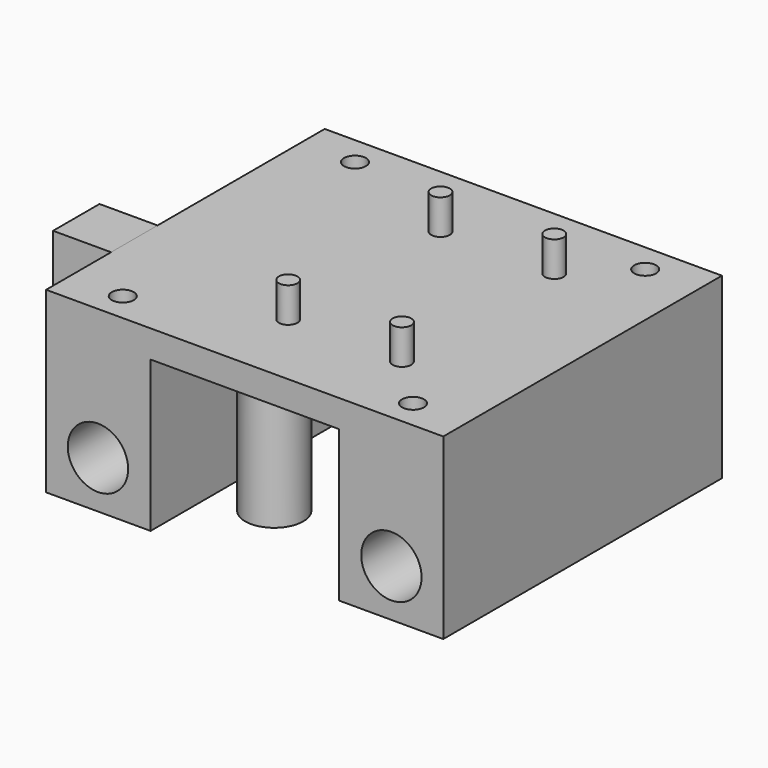
from build123d import *

# Parameters (mm, degrees)
F0_W      = 43.450012
F0_H      = 38.1
F1_DEPTH  = 3
F2_W      = 11.43
F2_H      = 38.1
F3_DEPTH  = 16.51
F4_R      = 3.302
F5_DEPTH  = 38.1
F6_R      = 1.016
F7_DEPTH  = 3.81
F8_R      = 1.2
F9_DEPTH  = 7
F10_R     = 3.175
F11_DEPTH = 16.51
F12_W     = 6.35
F12_H     = 9.625131
F13_DEPTH = 6.35


with BuildPart() as f1:
    # F0 (on Top) → F1 (new body)
    with BuildSketch(Plane.XY):
        Rectangle(F0_W, F0_H)
    extrude(amount=F1_DEPTH)

    # F2 (on face) → F3 (join)
    with BuildSketch(Plane(origin=(0, 0, 0), x_dir=(1, 0, 0), z_dir=(0, 0, -1))):
        with Locations((-16.010006, 0)):
            Rectangle(F2_W, F2_H)
        with Locations((16.010006, 0)):
            Rectangle(F2_W, F2_H)
    extrude(amount=F3_DEPTH)

    # F4 (on face) → F5 (cut, through all)
    with BuildSketch(Plane.XZ.offset(19.05)):
        with Locations((-16.050006, -11.335)):
            Circle(F4_R)
        with Locations((16.050006, -11.335)):
            Circle(F4_R)
    extrude(amount=-F5_DEPTH, mode=Mode.SUBTRACT)

    # F6 (on face) → F7 (join)
    with BuildSketch(Plane.XY.offset(3)):
        with Locations((-2.150994, -10.414)):
            Circle(F6_R)
        with Locations((10.295006, -10.414)):
            Circle(F6_R)
        with Locations((-2.150994, 10.414)):
            Circle(F6_R)
        with Locations((10.295006, 10.414)):
            Circle(F6_R)
    extrude(amount=F7_DEPTH)

    # F8 (on face) → F9 (cut)
    with BuildSketch(Plane.XY.offset(3)):
        with Locations((15.875, 15.875)):
            Circle(F8_R)
        with Locations((15.875, -15.875)):
            Circle(F8_R)
        with Locations((-15.875, 15.875)):
            Circle(F8_R)
        with Locations((-15.875, -15.875)):
            Circle(F8_R)
    extrude(amount=-F9_DEPTH, mode=Mode.SUBTRACT)

    # F10 (on face) → F11 (join, through all)
    with BuildSketch(Plane(origin=(0, 0, 0), x_dir=(1, 0, 0), z_dir=(0, 0, -1))):
        with Locations((-4.389362, 9.525)):
            Circle(F10_R)
        with Locations((-4.389362, -9.525)):
            Circle(F10_R)
    extrude(amount=F11_DEPTH)

    # F12 (on face) → F13 (join)
    with BuildSketch(Plane(origin=(-21.725006, 0, 0), x_dir=(0, -1, 0), z_dir=(-1, 0, 0))):
        with Locations((6.985, -1.812565)):
            Rectangle(F12_W, F12_H)
    extrude(amount=F13_DEPTH)


solid = f1.part
